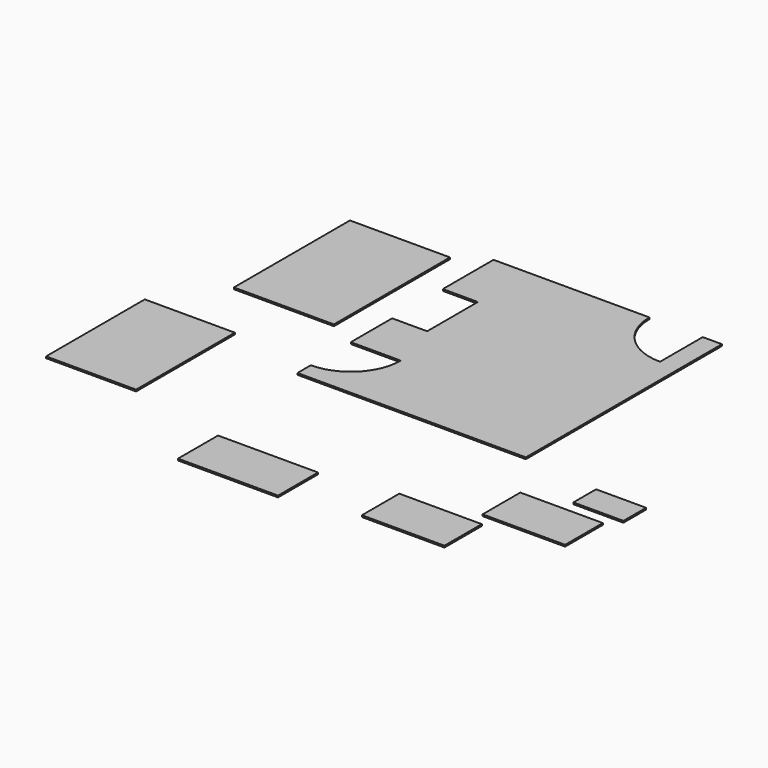
from build123d import *

# Parameters (mm, degrees)
F1_DEPTH  = 25.4
F2_W      = 1524
F2_H      = 2209.8
F3_DEPTH  = 25.4
F4_W      = 1371.6
F4_H      = 1879.6
F5_DEPTH  = 25.4
F6_W      = 1524
F6_H      = 762
F7_DEPTH  = 25.4
F8_W      = 1257.3
F8_H      = 711.2
F9_DEPTH  = 25.4
F10_W     = 762
F10_H     = 431.8
F11_DEPTH = 25.4
F12_W     = 1257.3
F12_H     = 717.55
F13_DEPTH = 25.4


with BuildPart() as f1:
    # F0 (on Top) → F1 (new body)
    with BuildSketch(Plane.XY):
        with BuildLine():
            Line((641.565705, 2522.977748), (-1733.334295, 2522.977748))
            Line((-1733.334295, 2522.977748), (-1733.334295, 1557.777748))
            Line((-1733.334295, 1557.777748), (-1199.934295, 1557.777748))
            Line((-1199.934295, 1557.777748), (-1199.934295, 592.577748))
            Line((-1199.934295, 592.577748), (-1733.334295, 592.577748))
            Line((-1733.334295, 592.577748), (-1733.334295, -194.822252))
            Line((-1733.334295, -194.822252), (-971.334295, -194.822252))
            ThreePointArc((-971.334295, -194.822252), (-1194.518928, -733.637619), (-1733.334295, -956.822252))
            Line((-1733.334295, -956.822252), (-1733.334295, -1210.822252))
            Line((-1733.334295, -1210.822252), (1746.465705, -1210.822252))
            Line((1746.465705, -1210.822252), (1746.465705, 2522.977748))
            Line((1746.465705, 2522.977748), (1454.365705, 2522.977748))
            Line((1454.365705, 2522.977748), (1454.365705, 1710.177748))
            ThreePointArc((1454.365705, 1710.177748), (879.629313, 1948.241356), (641.565705, 2522.977748))
        make_face()
    extrude(amount=F1_DEPTH)


with BuildPart() as f3:
    # F2 (on face) → F3 (new body)
    with BuildSketch(Plane.XY.offset(25.4)):
        with Locations((-2908.247259, 1104.9)):
            Rectangle(F2_W, F2_H)
    extrude(amount=F3_DEPTH)


with BuildPart() as f5:
    # F4 (on face) → F5 (new body)
    with BuildSketch(Plane.XY.offset(25.4)):
        with Locations((-3619.52424, -1842.931094)):
            Rectangle(F4_W, F4_H)
    extrude(amount=F5_DEPTH)


with BuildPart() as f7:
    # F6 (on face) → F7 (new body)
    with BuildSketch(Plane.XY.offset(25.4)):
        with Locations((-672.187269, -3478.55516)):
            Rectangle(F6_W, F6_H)
    extrude(amount=F7_DEPTH)


with BuildPart() as f9:
    # F8 (on face) → F9 (new body)
    with BuildSketch(Plane.XY.offset(25.4)):
        with Locations((1813.736558, -3275.53344)):
            Rectangle(F8_W, F8_H)
    extrude(amount=F9_DEPTH)


with BuildPart() as f11:
    # F10 (on face) → F11 (new body)
    with BuildSketch(Plane.XY.offset(25.4)):
        with Locations((3324.412107, -1585.68509)):
            Rectangle(F10_W, F10_H)
    extrude(amount=F11_DEPTH)


with BuildPart() as f13:
    # F12 (on face) → F13 (new body)
    with BuildSketch(Plane.XY.offset(25.4)):
        with Locations((2920.559168, -2357.254391)):
            Rectangle(F12_W, F12_H)
    extrude(amount=F13_DEPTH)


solid = Compound([f1.part, f3.part, f5.part, f7.part, f9.part, f11.part, f13.part])
